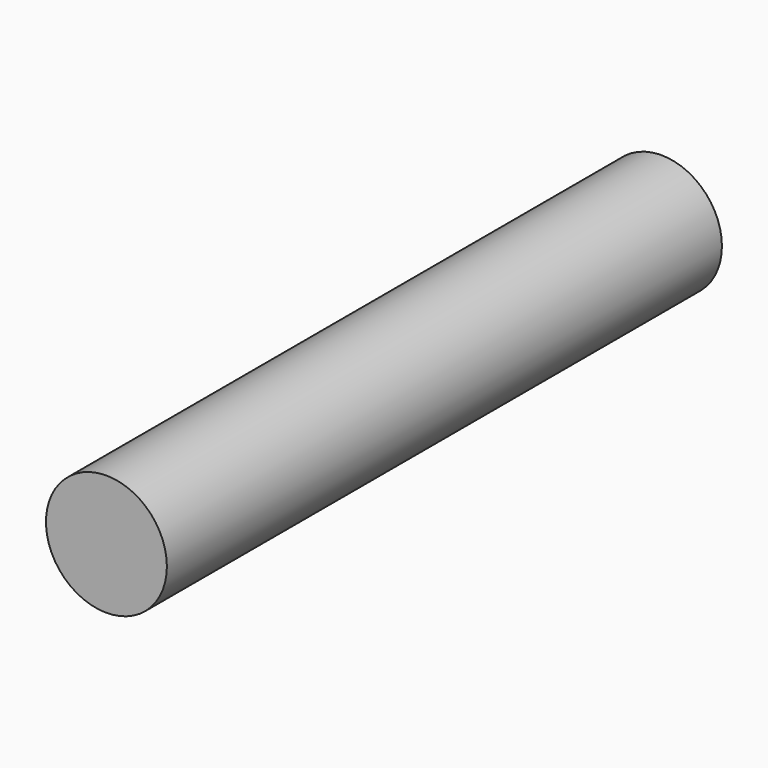
from build123d import *

# Parameters (mm, degrees)
F0_R     = 9.5208183928
F1_DEPTH = 101.6
F3_R     = 11.0662804661
F4_DEPTH = 127


with BuildPart() as f1:
    # F0 (on Front) → F1 (new body)
    with BuildSketch(Plane.XZ):
        Circle(F0_R)
    extrude(amount=F1_DEPTH)


with BuildPart() as f4:
    # F3 (on Front) → F4 (new body)
    with BuildSketch(Plane.XZ):
        Circle(F3_R)
    extrude(amount=F4_DEPTH)


solid = f4.part
